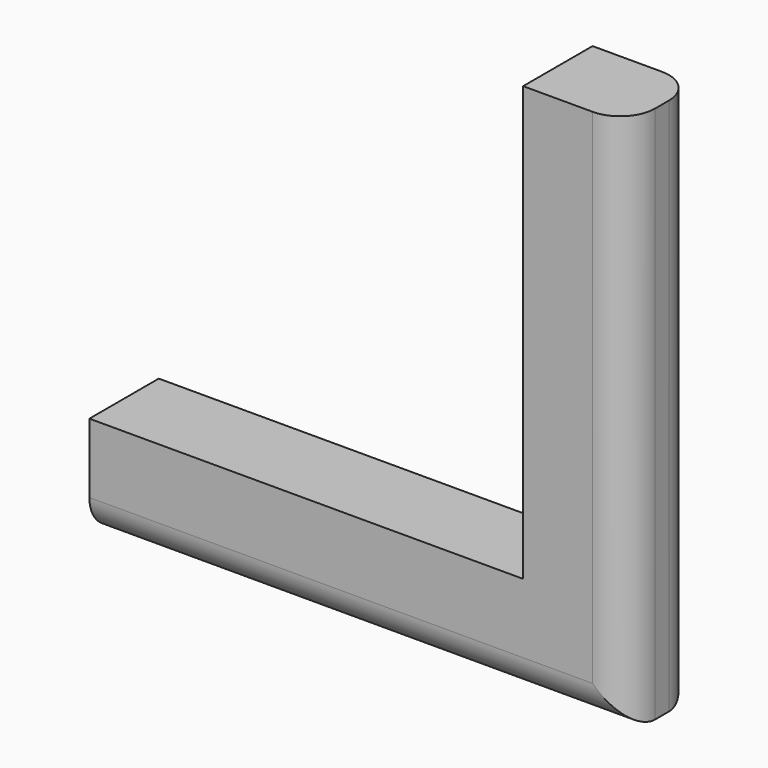
from build123d import *

# Parameters (mm, degrees)
F1_DEPTH = 12.7
F2_R     = 5.08


with BuildPart() as f1:
    # F0 (on Front) → F1 (new body)
    with BuildSketch(Plane.XZ):
        Polygon((0, 0), (-63.5, 0), (-63.5, -15.24), (15.24, -15.24), (15.24, 63.5), (0, 63.5), align=None)
    extrude(amount=F1_DEPTH)

    # F2
    f2_edges = [f1.edges().sort_by_distance(p)[0] for p in [
        (15.24, -12.7, 24.13),
        (-24.13, -12.7, -15.24),
        (-24.13, 0, -15.24),
        (15.24, 0, 24.13),
    ]]
    fillet(f2_edges, radius=F2_R)


solid = f1.part
